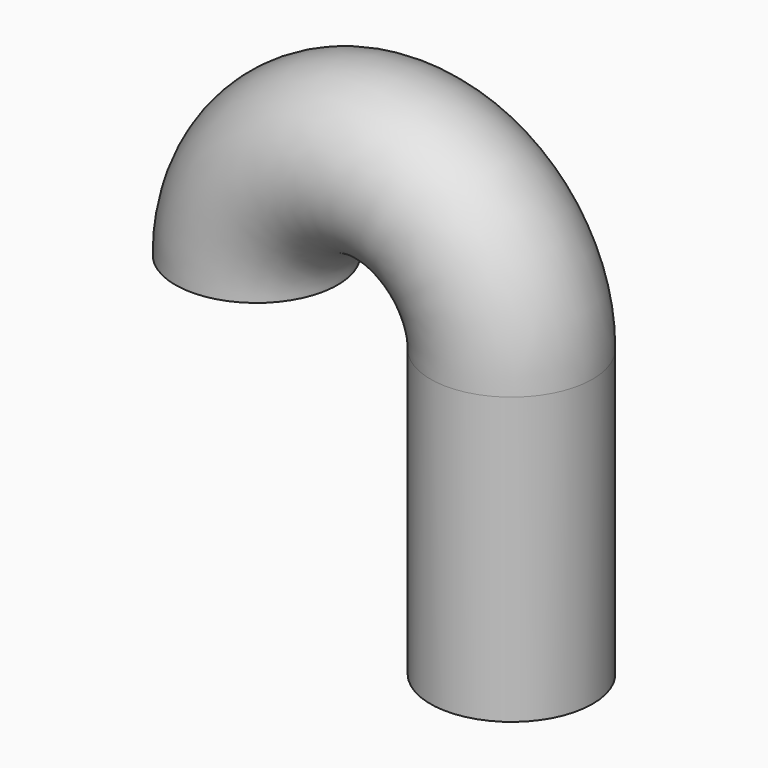
from build123d import *

# Parameters (mm, degrees)
F1_R = 10.3456513433


with BuildPart() as f2:
    # F2: sweep along a path in F0
    with BuildLine(Plane.XZ) as f2_path:
        Line((0, 0), (0, 36.4577583969))
        ThreePointArc((0, 36.4577583969), (-16.2581894547, 52.7159478515), (-32.5163789093, 36.4577583969))
    # F1 (on Top) → F2 (sweep)
    with BuildSketch(Plane.XY):
        Circle(F1_R)
    sweep(path=f2_path.line)


solid = f2.part
